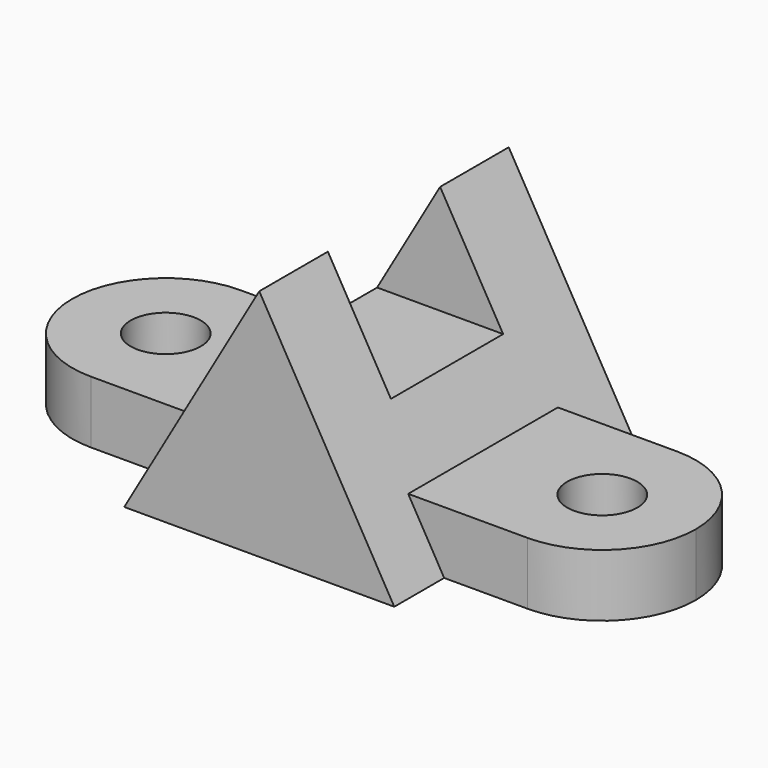
from build123d import *

# Parameters (mm, degrees)
F0_R     = 7.14375
F1_DEPTH = 12.7
F3_DEPTH = 31.75
F5_DEPTH = 25.4


with BuildPart() as f1:
    # F0 (on Top) → F1 (new body)
    with BuildSketch(Plane.XY):
        with BuildLine():
            Line((-25.4, 0), (0, 0))
            Line((0, 0), (25.4, 0))
            ThreePointArc((25.4, 0), (30.9796158184, 13.4703841816), (44.45, 19.05))
            Line((44.45, 19.05), (-44.45, 19.05))
            ThreePointArc((-44.45, 19.05), (-30.9796158184, 13.4703841816), (-25.4, 0))
        make_face()
        with BuildLine():
            Line((25.4, 0), (0, 0))
            Line((0, 0), (-25.4, 0))
            ThreePointArc((-25.4, 0), (-30.9796158184, -13.4703841816), (-44.45, -19.05))
            Line((-44.45, -19.05), (44.45, -19.05))
            ThreePointArc((44.45, -19.05), (30.9796158184, -13.4703841816), (25.4, 0))
        make_face()
        with BuildLine():
            ThreePointArc((44.45, 19.05), (30.9796158184, 13.4703841816), (25.4, 0))
            ThreePointArc((25.4, 0), (30.9796158184, -13.4703841816), (44.45, -19.05))
            ThreePointArc((44.45, -19.05), (57.9203841816, -13.4703841816), (63.5, 0))
            ThreePointArc((63.5, 0), (57.9203841816, 13.4703841816), (44.45, 19.05))
        make_face()
        with BuildLine():
            ThreePointArc((51.59375, 0), (44.45, -7.14375), (37.30625, 0))
            ThreePointArc((37.30625, 0), (44.45, 7.14375), (51.59375, 0))
        make_face(mode=Mode.SUBTRACT)
        with BuildLine():
            ThreePointArc((-44.45, -19.05), (-30.9796158184, -13.4703841816), (-25.4, 0))
            ThreePointArc((-25.4, 0), (-30.9796158184, 13.4703841816), (-44.45, 19.05))
            ThreePointArc((-44.45, 19.05), (-63.5, 0), (-44.45, -19.05))
        make_face()
        with Locations((-44.45, 0)):
            Circle(F0_R, mode=Mode.SUBTRACT)
    extrude(amount=F1_DEPTH)

    # F2 (on Front) → F3 (join, symmetric)
    with BuildSketch(Plane.XZ):
        Polygon((27.4963065702, 0), (0, 47.625), (-27.4963065702, 0), align=None)
    extrude(amount=F3_DEPTH, both=True)

    # F4 (on Right) → F5 (cut, symmetric)
    with BuildSketch(Plane.YZ):
        Polygon((14.2875, 47.625), (0, 47.625), (-14.2875, 47.625), (-14.2875, 25.4), (14.2875, 25.4), align=None)
    extrude(amount=F5_DEPTH, both=True, mode=Mode.SUBTRACT)


solid = f1.part
